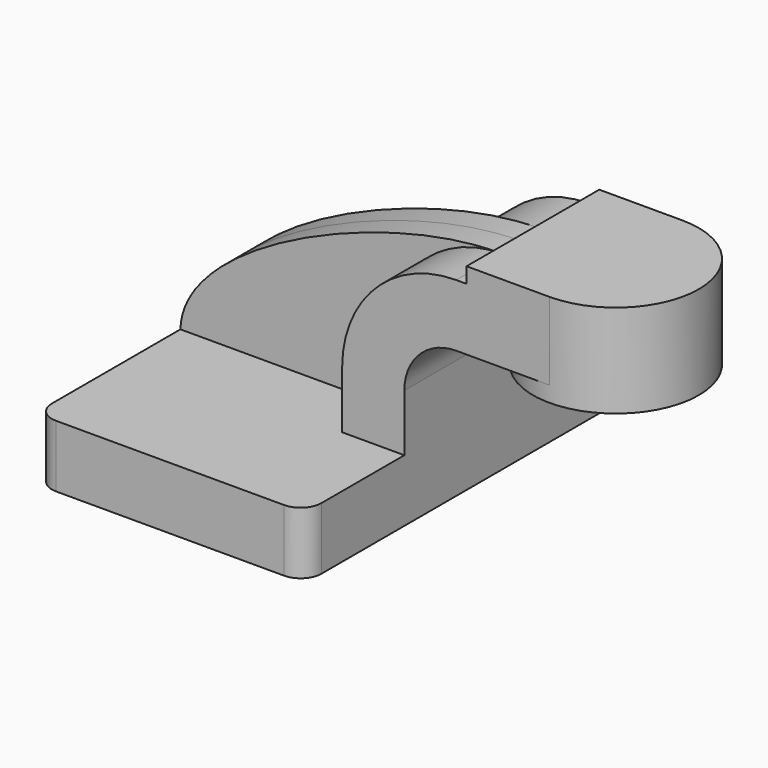
from build123d import *

# Parameters (mm, degrees)
F1_DEPTH = 63.5
F2_DEPTH = 25.4
F3_DEPTH = 7.9375
F5_R     = 6.35


with BuildPart() as f1:
    # F0 (on Front) → F1 (new body, symmetric)
    with BuildSketch(Plane.XZ):
        Polygon((-41.275, -9.525), (41.275, -9.525), (41.275, 9.525), (22.225, 9.525), (-41.275, 9.525), align=None)
    extrude(amount=F1_DEPTH, both=True)

    # F0 (on Front) → F2 (join, symmetric)
    with BuildSketch(Plane.XZ):
        with BuildLine():
            Line((22.225, 9.525), (41.275, 9.525))
            Line((41.275, 9.525), (41.275, 27.0002))
            ThreePointArc((41.275, 27.0002), (45.92468, 38.22552), (57.15, 42.8752))
            Line((57.15, 42.8752), (60.325, 42.8752))
            Line((60.325, 42.8752), (60.325, 61.9252))
            Line((60.325, 61.9252), (57.15, 61.9252))
            ThreePointArc((57.15, 61.9252), (32.454296, 51.695904), (22.225, 27.0002))
            Line((22.225, 27.0002), (22.225, 9.525))
        make_face()
        Polygon((60.325, 66.675), (60.325, 61.9252), (60.325, 42.8752), (85.725, 42.8752), (85.725, 66.675), align=None)
    extrude(amount=F2_DEPTH, both=True)

    # F0 (on Front) → F3 (join, symmetric)
    with BuildSketch(Plane.XZ):
        with BuildLine():
            add(Edge.make_bspline(
                [(-41.275, 9.525), (-40.671952, 35.93922), (22.924198, 62.560864), (57.15, 61.9252)],
                knots=[0, 0, 0, 0, 111.504536, 111.504536, 111.504536, 111.504536], degree=3))
            Line((-41.275, 9.525), (22.225, 9.525))
            Line((22.225, 9.525), (22.225, 27.0002))
            ThreePointArc((22.225, 27.0002), (32.454296, 51.695904), (57.15, 61.9252))
        make_face()
    extrude(amount=F3_DEPTH, both=True)

    # F0 (on Front) → F4 (revolve)
    with BuildSketch(Plane.XZ):
        Polygon((85.725, 66.675), (85.725, 42.8752), (85.725, 38.1), (111.125, 38.1), (111.125, 66.675), align=None)
    revolve(axis=Axis((85.725, 0, 52.3875), (0, 0, 1)))

    # F5
    f5_edges = [f1.edges().sort_by_distance(p)[0] for p in [
        (-41.275, -63.5, 0),
        (41.275, -63.5, 0),
        (41.275, 63.5, 0),
        (-41.275, 63.5, 0),
    ]]
    fillet(f5_edges, radius=F5_R)


solid = f1.part
